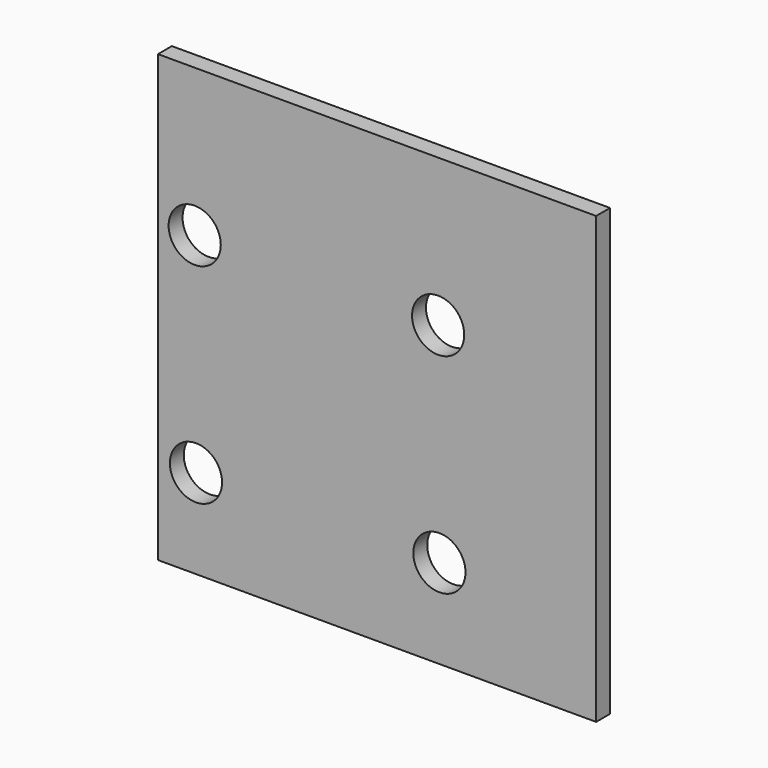
from build123d import *

# Parameters (mm, degrees)
F0_R     = 9.525
F0_W     = 136.144
F0_H     = 30.48
F0_W_2   = 23.876
F1_DEPTH = 6.35


with BuildPart() as f1:
    # F0 (on Front) → F1 (new body)
    with BuildSketch(Plane.XZ):
        Polygon((78.622635, 91.990085), (-81.397365, 91.990085), (-81.397365, 15.24), (54.746635, 15.24), (78.622635, 15.24), align=None)
        with Locations((-67.981206, 38.1)):
            Circle(F0_R, mode=Mode.SUBTRACT)
        with Locations((20.918794, 38.1)):
            Circle(F0_R, mode=Mode.SUBTRACT)
        with Locations((-13.325365, 0)):
            Rectangle(F0_W, F0_H)
        with Locations((66.684635, 0)):
            Rectangle(F0_W_2, F0_H)
        Polygon((54.746635, -15.24), (-81.397365, -15.24), (-81.397365, -70.67487), (78.622635, -70.67487), (78.622635, -15.24), align=None)
        with Locations((-67.518748, -38.1)):
            Circle(F0_R, mode=Mode.SUBTRACT)
        with Locations((21.381252, -38.1)):
            Circle(F0_R, mode=Mode.SUBTRACT)
    extrude(amount=F1_DEPTH)


solid = f1.part
